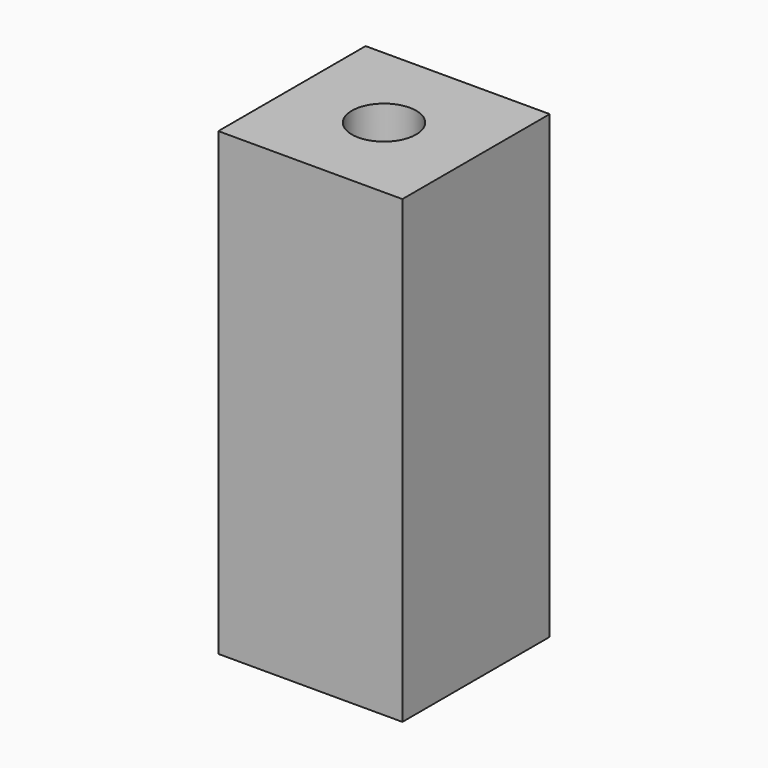
from build123d import *

# Parameters (mm, degrees)
F1_W     = 10
F1_H     = 10
F2_DEPTH = 25
F0_R     = 1.75
F3_DEPTH = 25


with BuildPart() as f2:
    # F1 (on Top) → F2 (new body)
    with BuildSketch(Plane.XY):
        Rectangle(F1_W, F1_H)
    extrude(amount=F2_DEPTH)

    # F0 (on Top) → F3 (cut, through all)
    with BuildSketch(Plane.XY):
        Circle(F0_R)
    extrude(amount=F3_DEPTH, mode=Mode.SUBTRACT)


solid = f2.part
